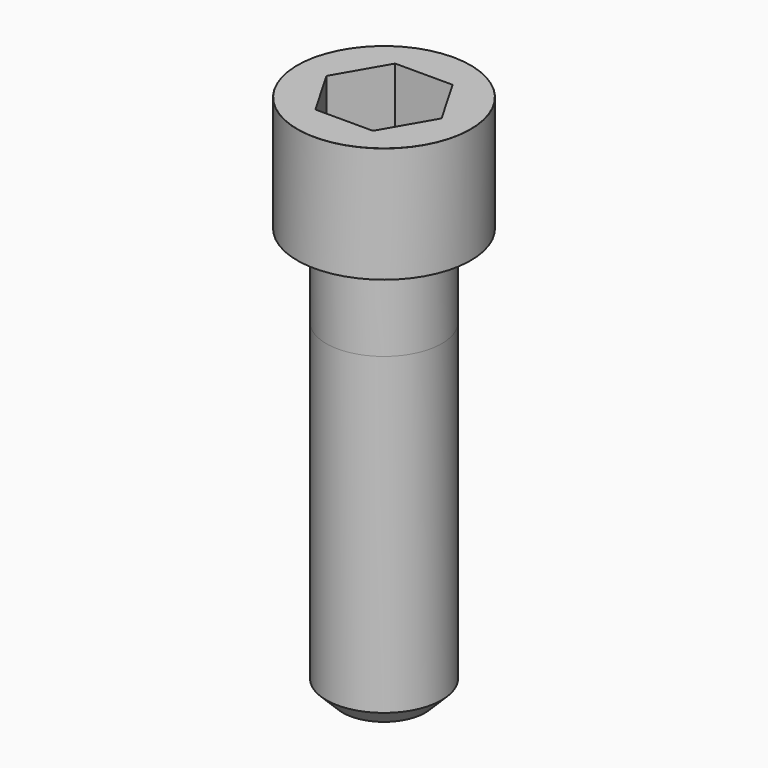
from build123d import *

# Parameters (mm, degrees)
POCKET_DEPTH = 12.07


with BuildPart() as part:
    # Sketch → Revolve (revolve)
    with BuildSketch(Plane.YZ):
        with BuildLine():
            Line((6.999, 0), (10.5, 0))
            Line((10.5, 0), (10.5, 13.97229))
            ThreePointArc((10.5, 13.97229), (10.491884, 13.991884), (10.47229, 14))
            Line((10.47229, 14), (0, 14))
            Line((0, -50), (0, 14))
            Line((5, -50), (0, -50))
            Line((7, -48), (5, -50))
            Line((7, -10), (7, -48))
            Line((6.999, 0), (7, -10))
        make_face()
    revolve(axis=Axis((0, 0, 0), (0, 0, 1)))

    # Sketch001 → Pocket (cut)
    with BuildSketch(Plane.XY.offset(14)):
        Polygon((6.968618, 0), (3.484309, 6.035), (-3.484309, 6.035), (-6.968618, 0), (-3.484309, -6.035), (3.484309, -6.035), align=None)
    extrude(amount=-POCKET_DEPTH, mode=Mode.SUBTRACT)


solid = part.part
